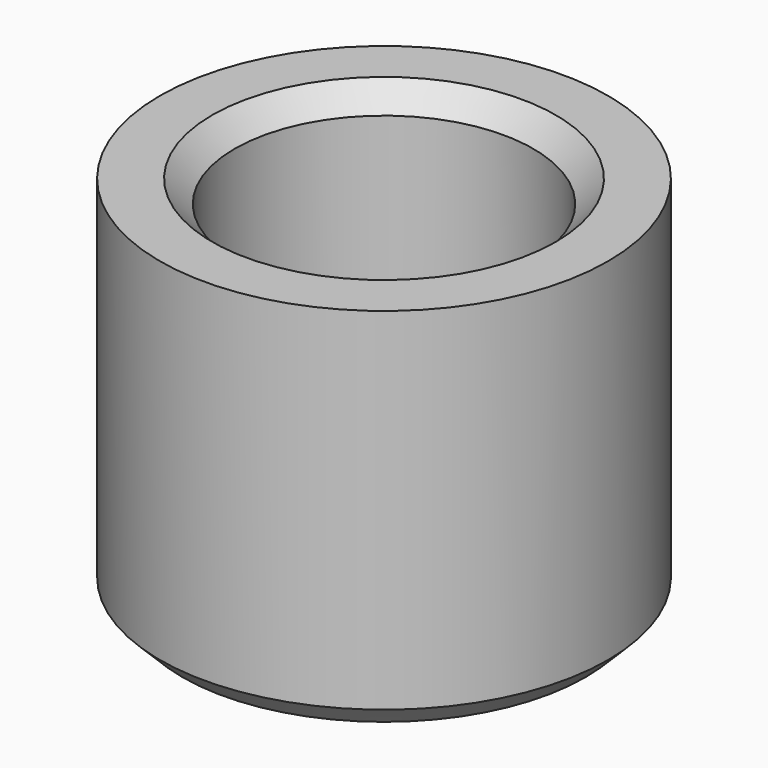
from build123d import *

# Parameters (mm, degrees)
CHAMFER_SIZE    = 0.6
CHAMFER001_SIZE = 0.6


with BuildPart() as part:
    # Sketch010 → Revolution001 (revolve)
    with BuildSketch(Plane.XZ):
        Polygon((1, -8), (4, -8), (4, 0), (6, 0), (6, -10), (1, -10), align=None)
    revolve(axis=Axis((0, 0, 0), (0, 0, 1)))

    # Chamfer
    chamfer_edges = [part.edges().sort_by_distance(p)[0] for p in [
        (-6, 0, -10),
    ]]
    chamfer(chamfer_edges, length=CHAMFER_SIZE)

    # Chamfer001
    chamfer001_edges = [part.edges().sort_by_distance(p)[0] for p in [
        (-4, 0, 0),
    ]]
    chamfer(chamfer001_edges, length=CHAMFER001_SIZE)


with BuildPart() as part_1:
    # Body007 placement: moved
    add(part.part.moved(Location((-159.3, 24.6, -9))))


solid = part_1.part
